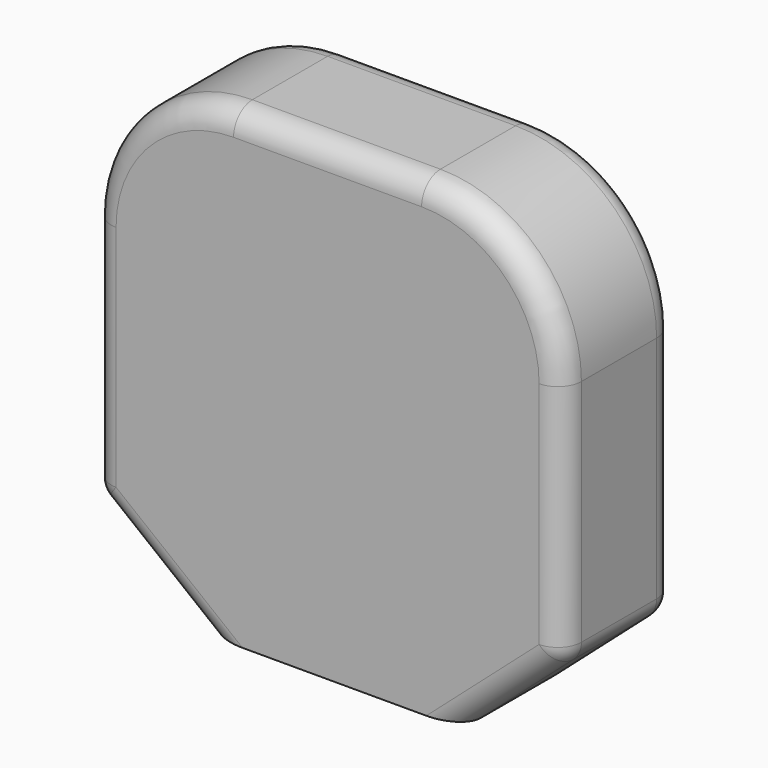
from build123d import *

# Parameters (mm, degrees)
F1_DEPTH = 30
F2_R     = 5


with BuildPart() as f1:
    # F0 (on Front) → F1 (new body)
    with BuildSketch(Plane.XZ):
        with BuildLine():
            Line((3.848564, 40.545794), (-36.151436, 40.545794))
            ThreePointArc((-36.151436, 40.545794), (-57.364639, 31.758997), (-66.151436, 10.545794))
            Line((-66.151436, 10.545794), (-66.151436, -40.54739))
            Line((-66.151436, -40.54739), (-42.301435, -59.454206))
            Line((-42.301435, -59.454206), (12.407666, -59.454206))
            Line((12.407666, -59.454206), (33.848564, -40.54739))
            Line((33.848564, -40.54739), (33.848564, 10.545794))
            ThreePointArc((33.848564, 10.545794), (25.061768, 31.758997), (3.848564, 40.545794))
        make_face()
    extrude(amount=F1_DEPTH)

    # F2
    f2_edges = [f1.edges().sort_by_distance(p)[0] for p in [
        (-57.364639, -30, 31.758997),
        (-36.151436, -15, 40.545794),
        (-66.151436, -15, 10.545794),
        (-57.364639, 0, 31.758997),
        (25.061768, -30, 31.758997),
        (33.848564, -15, 10.545794),
        (3.848564, -15, 40.545794),
        (25.061768, 0, 31.758997),
        (23.128115, -30, -50.000798),
        (33.848564, -15, -40.54739),
        (-54.226435, -30, -50.000798),
        (-54.226435, 0, -50.000798),
        (-66.151436, -15, -40.54739),
        (-42.301435, -15, -59.454206),
        (23.128115, 0, -50.000798),
    ]]
    fillet(f2_edges, radius=F2_R)


solid = f1.part
